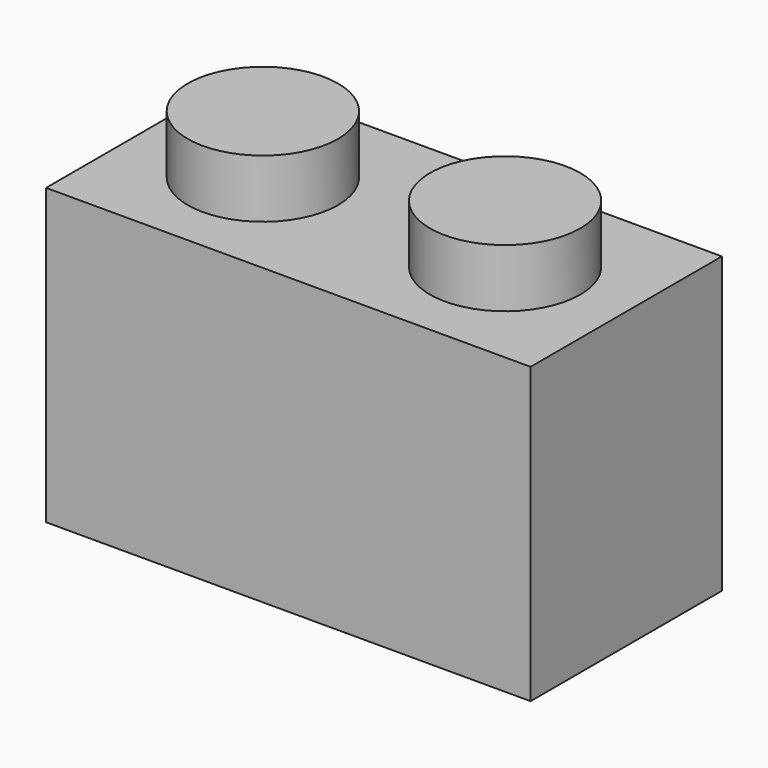
from build123d import *

# Parameters (mm, degrees)
F0_W     = 15.8
F0_H     = 9.6
F1_DEPTH = 7.8
F2_R     = 2.45
F3_DEPTH = 1.9
F5_DEPTH = 8.3
F6_DEPTH = 2


with BuildPart() as f1:
    # F0 (on Front) → F1 (new body)
    with BuildSketch(Plane.XZ):
        with Locations((-46.6530766249, -29.9555875778)):
            Rectangle(F0_W, F0_H)
    extrude(amount=F1_DEPTH)

    # F2 (on face) → F3 (join)
    with BuildSketch(Plane.XY.offset(-25.1555875778)):
        with Locations((-50.6030766249, -3.9)):
            Circle(F2_R)
        with Locations((-42.7030766249, -3.9)):
            Circle(F2_R)
    extrude(amount=F3_DEPTH)

    # F4 (on face) → F5 (cut)
    with BuildSketch(Plane(origin=(0, 0, -34.7555875778), x_dir=(1, 0, 0), z_dir=(0, 0, -1))):
        with BuildLine():
            Line((-53.2821939588, 6.3), (-53.2821939588, 1.5))
            Line((-53.2821939588, 1.5), (-46.8821939588, 1.5))
            Line((-46.8821939588, 1.5), (-46.8821939588, 1.925))
            Line((-46.8821939588, 1.925), (-46.8821939588, 2.35))
            ThreePointArc((-46.8821939588, 2.35), (-48.4321435514, 3.8874995935), (-46.9071939588, 5.449798374))
            Line((-46.9071939588, 5.449798374), (-46.9071939588, 6.3))
            Line((-46.9071939588, 6.3), (-53.2821939588, 6.3))
        make_face()
        with BuildLine():
            Line((-46.8821939588, 1.925), (-46.8821939588, 1.5))
            Line((-46.8821939588, 1.5), (-40.4821939588, 1.5))
            Line((-40.4821939588, 1.5), (-40.4821939588, 6.3))
            Line((-40.4821939588, 6.3), (-46.8571939588, 6.3))
            Line((-46.8571939588, 6.3), (-46.8571939588, 5.449798374))
            ThreePointArc((-46.8571939588, 5.449798374), (-45.7773749691, 4.9871407453), (-45.3321939588, 3.9))
            ThreePointArc((-45.3321939588, 3.9), (-45.7861784479, 2.8039844892), (-46.8821939588, 2.35))
            Line((-46.8821939588, 2.35), (-46.8821939588, 1.925))
        make_face()
    extrude(amount=-F5_DEPTH, mode=Mode.SUBTRACT)

    # F4 (on face) → F6 (cut)
    with BuildSketch(Plane(origin=(0, 0, -34.7555875778), x_dir=(1, 0, 0), z_dir=(0, 0, -1))):
        with BuildLine():
            Line((-46.8571939588, 6.3), (-46.9071939588, 6.3))
            Line((-46.9071939588, 6.3), (-46.9071939588, 5.449798374))
            ThreePointArc((-46.9071939588, 5.449798374), (-46.8821939588, 5.45), (-46.8571939588, 5.449798374))
            Line((-46.8571939588, 5.449798374), (-46.8571939588, 6.3))
        make_face()
    extrude(amount=-F6_DEPTH, mode=Mode.SUBTRACT)


solid = f1.part
